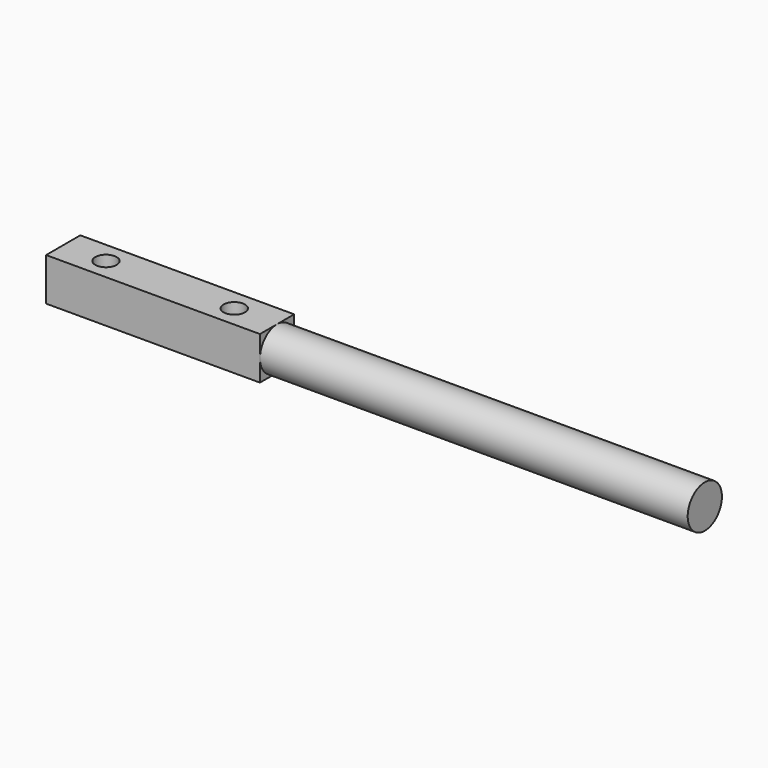
from build123d import *

# Parameters (mm, degrees)
F0_W     = 2.5
F0_H     = 0.5
F0_R     = 0.125
F1_DEPTH = 0.5
F2_R     = 0.25
F3_DEPTH = 5


with BuildPart() as f1:
    # F0 (on Top) → F1 (new body)
    with BuildSketch(Plane.XY):
        with Locations((1.25, 0.25)):
            Rectangle(F0_W, F0_H)
        with Locations((0.5, 0.25)):
            Circle(F0_R, mode=Mode.SUBTRACT)
        with Locations((2, 0.25)):
            Circle(F0_R, mode=Mode.SUBTRACT)
    extrude(amount=F1_DEPTH)

    # F2 (on face) → F3 (join)
    with BuildSketch(Plane.YZ.offset(2.5)):
        with Locations((0.25, 0.25)):
            Circle(F2_R)
    extrude(amount=F3_DEPTH)


solid = f1.part
